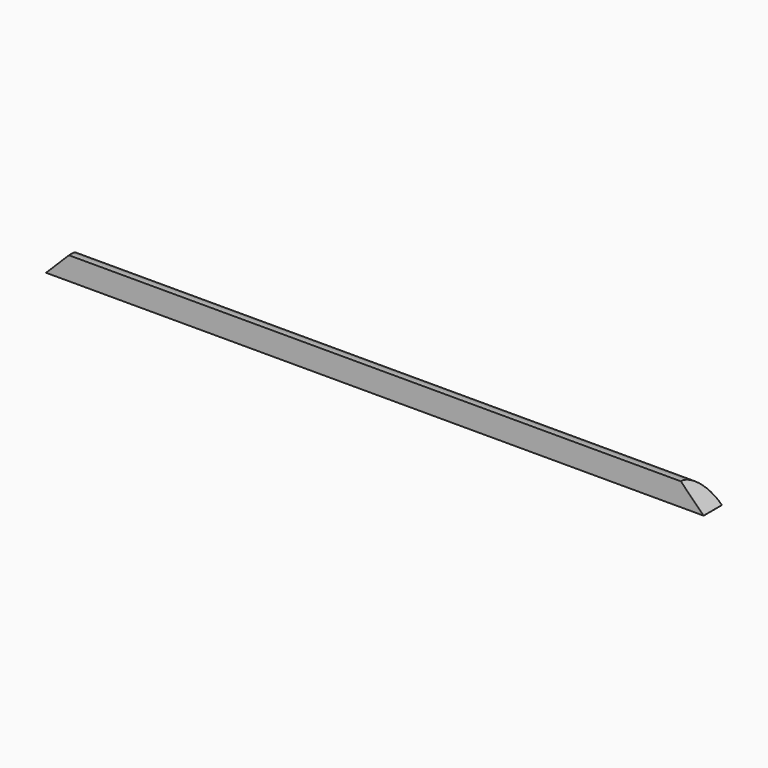
from build123d import *

# Parameters (mm, degrees)
SKETCH001_W  = 230
SKETCH001_H  = 8
PAD001_DEPTH = 4
CHAMFER_SIZE = 7.99
FILLET_R     = 7.99


with BuildPart() as part:
    # Sketch001 → Pad001 (new body, symmetric)
    with BuildSketch(Plane.XZ):
        Rectangle(SKETCH001_W, SKETCH001_H)
    extrude(amount=PAD001_DEPTH, both=True)

    # Chamfer
    chamfer_edges = [part.edges().sort_by_distance(p)[0] for p in [
        (115, 0, 4),
        (-115, 0, 4),
    ]]
    chamfer(chamfer_edges, length=CHAMFER_SIZE)

    # Fillet
    fillet_edges = [part.edges().sort_by_distance(p)[0] for p in [
        (0, 4, 4),
    ]]
    fillet(fillet_edges, radius=FILLET_R)


solid = part.part
